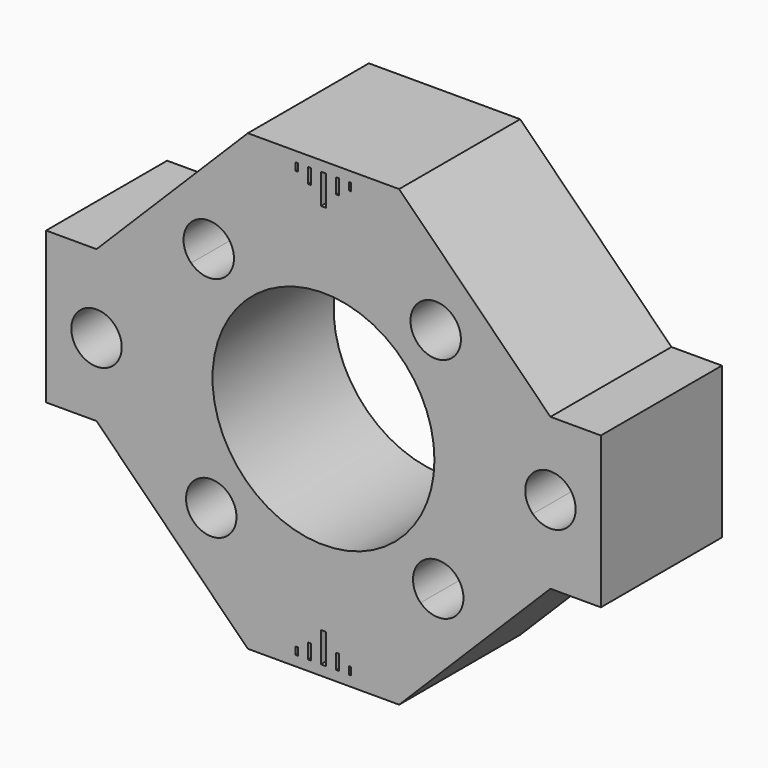
from build123d import *

# Parameters (mm, degrees)
F0_W      = 45
F0_H      = 45
F1_DEPTH  = 15
F2_R      = 11
F3_DEPTH  = 15.001
F5_DEPTH  = 15.001
F6_W      = 0.3
F6_H      = 1.5
F6_W_2    = 0.2
F6_H_2    = 0.75
F7_DEPTH  = 1
F8_DEPTH  = 5
F9_DEPTH  = 5
F11_DEPTH = 15.001


with BuildPart() as f1:
    # F0 (on Front) → F1 (new body)
    with BuildSketch(Plane.XZ):
        Rectangle(F0_W, F0_H)
    extrude(amount=F1_DEPTH)

    # F2 (on face) → F3 (cut, through all)
    with BuildSketch(Plane.XZ.offset(15)):
        Circle(F2_R)
    extrude(amount=-F3_DEPTH, mode=Mode.SUBTRACT)

    # F4 (on face) → F5 (cut, through all)
    with BuildSketch(Plane.XZ.offset(15)):
        Polygon((-22.5, 22.5), (-22.5, 7.5), (-7.5, 22.5), align=None)
        Polygon((22.5, 22.5), (7.5, 22.5), (22.5, 7.5), align=None)
        Polygon((-22.5, -22.5), (-7.5, -22.5), (-22.5, -7.5), align=None)
        Polygon((22.5, -22.5), (22.5, -7.5), (7.5, -22.5), align=None)
    extrude(amount=-F5_DEPTH, mode=Mode.SUBTRACT)

    # F6 (on face) → F7 (cut)
    with BuildSketch(Plane.XZ.offset(15)):
        Polygon((0.25, 20), (0.25, 21.5), (-0.25, 21.5), (-0.25, 20), (-0.25, 18.5), (0.25, 18.5), align=None)
        with Locations((-1.4, 20.75)):
            Rectangle(F6_W, F6_H)
        with Locations((1.4, 20.75)):
            Rectangle(F6_W, F6_H)
        with Locations((-2.65, 21.125)):
            Rectangle(F6_W_2, F6_H_2)
        with Locations((2.65, 21.125)):
            Rectangle(F6_W_2, F6_H_2)
        Polygon((-0.25, -21.5), (0.25, -21.5), (0.25, -20), (0.25, -18.5), (-0.25, -18.5), (-0.25, -20), align=None)
        with Locations((-1.4, -20.75)):
            Rectangle(F6_W, F6_H)
        with Locations((2.65, -21.125)):
            Rectangle(F6_W_2, F6_H_2)
        with Locations((1.4, -20.75)):
            Rectangle(F6_W, F6_H)
        with Locations((-2.65, -21.125)):
            Rectangle(F6_W_2, F6_H_2)
    extrude(amount=-F7_DEPTH, mode=Mode.SUBTRACT)

    # F8 (add): a face of the model
    f8_faces = [f1.faces().sort_by_distance(p)[0] for p in [
        (22.5, -7.5, 0),
    ]]
    extrude(f8_faces, amount=F8_DEPTH)

    # F9 (add): a face of the model
    f9_faces = [f1.faces().sort_by_distance(p)[0] for p in [
        (-22.5, -7.5, 0),
    ]]
    extrude(f9_faces, amount=F9_DEPTH)

    # F10 (on face) → F11 (cut, through all)
    with BuildSketch(Plane.XZ.offset(15)):
        with BuildLine():
            ThreePointArc((13.625, 11.375), (12.068862752, 13.6899779924), (9.3377015157, 13.123017199))
            Line((9.3377015157, 13.123017199), (12.9122984843, 9.626982801))
            ThreePointArc((12.9122984843, 9.626982801), (13.4399779924, 10.431137248), (13.625, 11.375))
        make_face()
        with BuildLine():
            Line((12.9122984843, 9.626982801), (9.3377015157, 13.123017199))
            ThreePointArc((9.3377015157, 13.123017199), (9.376982801, 9.5877015157), (12.9122984843, 9.626982801))
        make_face()
        with BuildLine():
            Line((20.7127015157, 1.998017199), (22.5, 0.25))
            Line((22.5, 0.25), (20.751982801, -1.5372984843))
            ThreePointArc((20.751982801, -1.5372984843), (23.4695248843, -2.0543483892), (25, 0.25))
            ThreePointArc((25, 0.25), (23.443862752, 2.5649779924), (20.7127015157, 1.998017199))
        make_face()
        with BuildLine():
            Line((20.751982801, -1.5372984843), (22.5, 0.25))
            Line((22.5, 0.25), (20.7127015157, 1.998017199))
            ThreePointArc((20.7127015157, 1.998017199), (20.0001543067, 0.2222239367), (20.751982801, -1.5372984843))
        make_face()
        with BuildLine():
            ThreePointArc((-12.9122984843, -9.626982801), (-12.873017199, -13.1622984843), (-9.3377015157, -13.123017199))
            Line((-9.3377015157, -13.123017199), (-12.9122984843, -9.626982801))
        make_face()
        with BuildLine():
            Line((-12.9122984843, -9.626982801), (-9.3377015157, -13.123017199))
            ThreePointArc((-9.3377015157, -13.123017199), (-8.8100220076, -12.318862752), (-8.625, -11.375))
            ThreePointArc((-8.625, -11.375), (-10.181137248, -9.0600220076), (-12.9122984843, -9.626982801))
        make_face()
        with BuildLine():
            Line((-20.7127015157, -1.998017199), (-22.5, -0.25))
            Line((-22.5, -0.25), (-20.751982801, 1.5372984843))
            ThreePointArc((-20.751982801, 1.5372984843), (-24.9998456933, -0.2777760633), (-20.7127015157, -1.998017199))
        make_face()
        with BuildLine():
            Line((-20.751982801, 1.5372984843), (-22.5, -0.25))
            Line((-22.5, -0.25), (-20.7127015157, -1.998017199))
            ThreePointArc((-20.7127015157, -1.998017199), (-20.1850220076, -1.193862752), (-20, -0.25))
            ThreePointArc((-20, -0.25), (-20.1956516108, 0.7195248843), (-20.751982801, 1.5372984843))
        make_face()
        with BuildLine():
            ThreePointArc((-13.123017199, 9.3377015157), (-10.4054751157, 8.8206516108), (-8.875, 11.125))
            ThreePointArc((-8.875, 11.125), (-9.0706516108, 12.0945248843), (-9.626982801, 12.9122984843))
            Line((-9.626982801, 12.9122984843), (-13.123017199, 9.3377015157))
        make_face()
        with BuildLine():
            Line((-13.123017199, 9.3377015157), (-9.626982801, 12.9122984843))
            ThreePointArc((-9.626982801, 12.9122984843), (-13.1622984843, 12.873017199), (-13.123017199, 9.3377015157))
        make_face()
        with BuildLine():
            ThreePointArc((9.626982801, -12.9122984843), (12.3445248843, -13.4293483892), (13.875, -11.125))
            ThreePointArc((13.875, -11.125), (13.6793483892, -10.1554751157), (13.123017199, -9.3377015157))
            Line((13.123017199, -9.3377015157), (9.626982801, -12.9122984843))
        make_face()
        with BuildLine():
            Line((9.626982801, -12.9122984843), (13.123017199, -9.3377015157))
            ThreePointArc((13.123017199, -9.3377015157), (9.5877015157, -9.376982801), (9.626982801, -12.9122984843))
        make_face()
    extrude(amount=-F11_DEPTH, mode=Mode.SUBTRACT)


solid = f1.part
